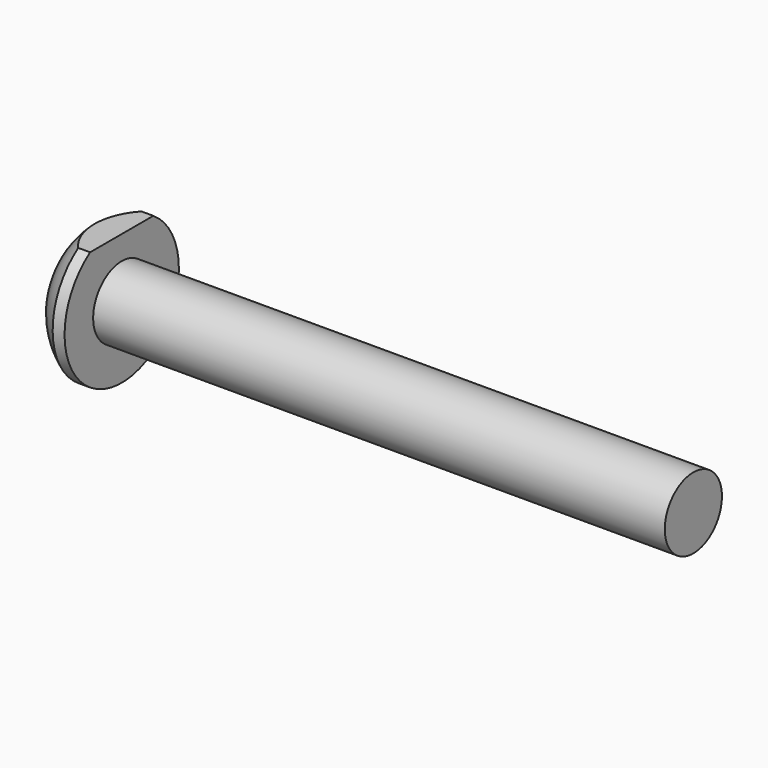
from build123d import *

# Parameters (mm, degrees)
F3_DEPTH = 25.4


with BuildPart() as f1:
    # F0 (on Front) → F1 (revolve)
    with BuildSketch(Plane.XZ):
        with BuildLine():
            Line((-4.432628, 50.487722), (-6.020128, 50.487722))
            ThreePointArc((-6.020128, 50.487722), (-7.747052, 49.207368), (-9.195128, 47.618456))
            Line((-9.195128, 47.618456), (-9.195128, 40.962722))
            Line((-9.195128, 40.962722), (-6.020128, 40.962722))
            Line((-6.020128, 40.962722), (-4.432628, 40.962722))
            Line((-4.432628, 40.962722), (71.767372, 40.962722))
            Line((71.767372, 40.962722), (71.767372, 45.725222))
            Line((71.767372, 45.725222), (-4.432628, 45.725222))
            Line((-4.432628, 45.725222), (-4.432628, 50.487722))
        make_face()
    revolve(axis=Axis((33.667372, 0, 40.962722), (1, 0, 0)))

    # F2 (on face) → F3 (cut)
    with BuildSketch(Plane(origin=(-9.195128, 0, 0), x_dir=(0, -1, 0), z_dir=(-1, 0, 0))):
        Polygon((-27.419971, 48.900222), (0, 48.900222), (19.307924, 48.900222), (19.307924, 53.725179), (-27.419971, 53.725179), align=None)
    extrude(amount=-F3_DEPTH, mode=Mode.SUBTRACT)


solid = f1.part
